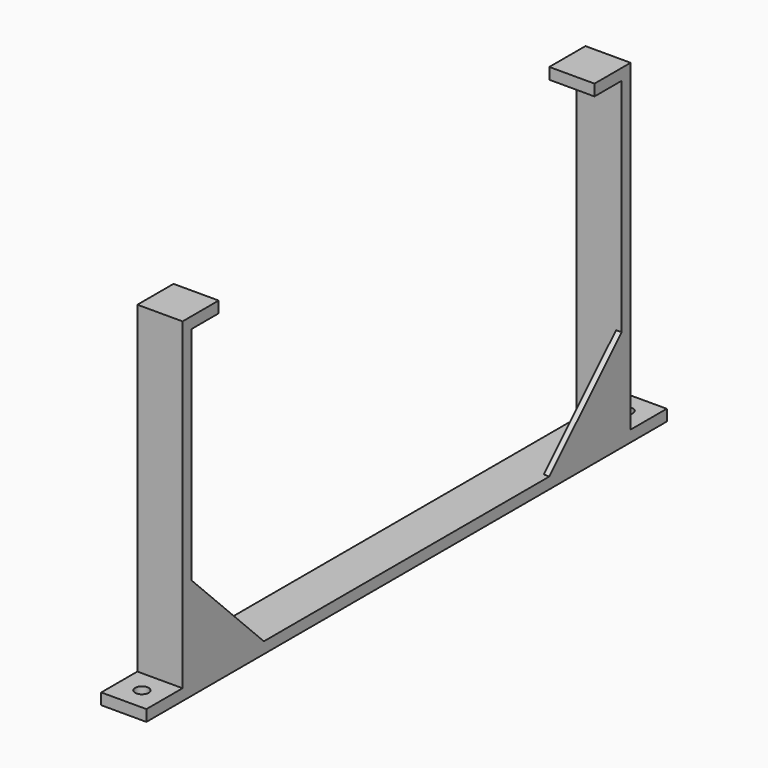
from build123d import *

# Parameters (mm, degrees)
F0_W     = 12.7
F0_H     = 151.13
F1_DEPTH = 3.175
F0_H_2   = 3.175
F2_DEPTH = 93.98
F0_H_3   = 12.7
F0_R     = 1.905
F3_DEPTH = 3.175
F4_W     = 12.7
F4_H     = 3.175
F5_DEPTH = 9.525
F6_W     = 12.7
F6_H     = 3.175
F7_DEPTH = 9.525
F9_DEPTH = 1.55575


with BuildPart() as f1:
    # F0 (on Top) → F1 (new body)
    with BuildSketch(Plane.XY):
        Rectangle(F0_W, F0_H)
    extrude(amount=F1_DEPTH)

    # F0 (on Top) → F2 (join)
    with BuildSketch(Plane.XY):
        with Locations((0, 77.1525)):
            Rectangle(F0_W, F0_H_2)
        with Locations((0, -77.1525)):
            Rectangle(F0_W, F0_H_2)
    extrude(amount=F2_DEPTH)

    # F0 (on Top) → F3 (join)
    with BuildSketch(Plane.XY):
        with Locations((0, 85.09)):
            Rectangle(F0_W, F0_H_3)
        with Locations((0, 85.09)):
            Circle(F0_R, mode=Mode.SUBTRACT)
        with Locations((0, -85.09)):
            Rectangle(F0_W, F0_H_3)
        with Locations((0, -85.09)):
            Circle(F0_R, mode=Mode.SUBTRACT)
    extrude(amount=F3_DEPTH)

    # F4 (on face) → F5 (join)
    with BuildSketch(Plane.XZ.offset(-75.565)):
        with Locations((0, 92.3925)):
            Rectangle(F4_W, F4_H)
    extrude(amount=F5_DEPTH)

    # F6 (on face) → F7 (join)
    with BuildSketch(Plane(origin=(0, -75.565, 0), x_dir=(-1, 0, 0), z_dir=(0, 1, 0))):
        with Locations((0, 92.3925)):
            Rectangle(F6_W, F6_H)
    extrude(amount=F7_DEPTH)

    # F8 (on face) → F9 (join)
    with BuildSketch(Plane.YZ.offset(6.35)):
        Polygon((75.565, 28.575), (50.165, 3.175), (75.565, 3.175), align=None)
        Polygon((-75.565, 3.175), (-50.165, 3.175), (-75.565, 28.575), align=None)
    extrude(amount=-F9_DEPTH)


solid = f1.part
